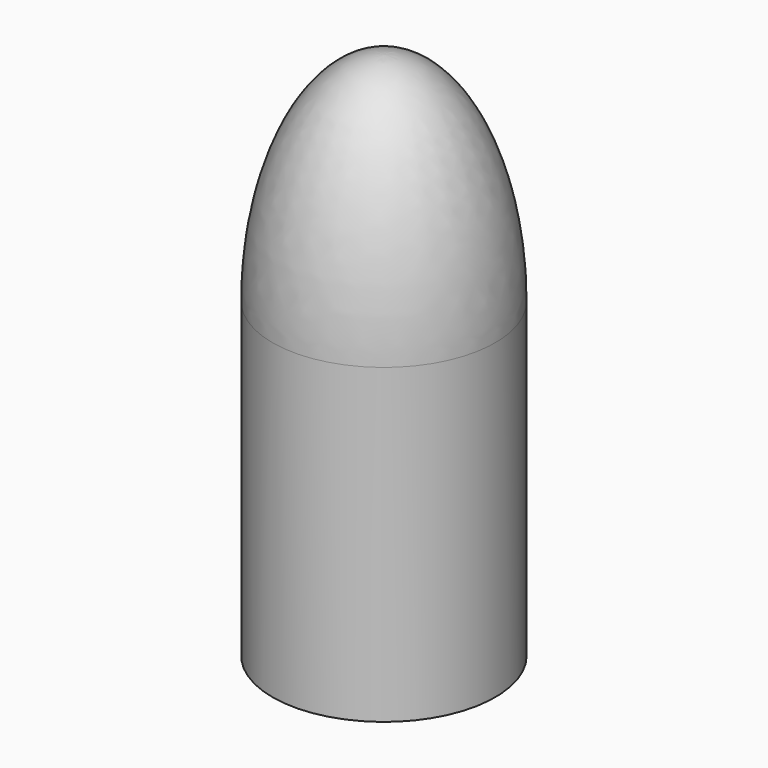
from build123d import *


with BuildPart() as f1:
    # F0 (on Front) → F1 (revolve)
    with BuildSketch(Plane.XZ):
        with BuildLine():
            Line((0, 0), (0, 9.5))
            add(Edge.make_bspline(
                [(0, 9.5), (-2, 9.5), (-2, 5.6)],
                knots=[0, 0, 0, 1.5707963268, 1.5707963268, 1.5707963268], degree=2, weights=[1, 0.7071067812, 1]))
            Line((-2, 5.6), (-2, 0))
            Line((-2, 0), (0, 0))
        make_face()
    revolve(axis=Axis((0, 0, 4.75), (0, 0, 1)))


solid = f1.part
